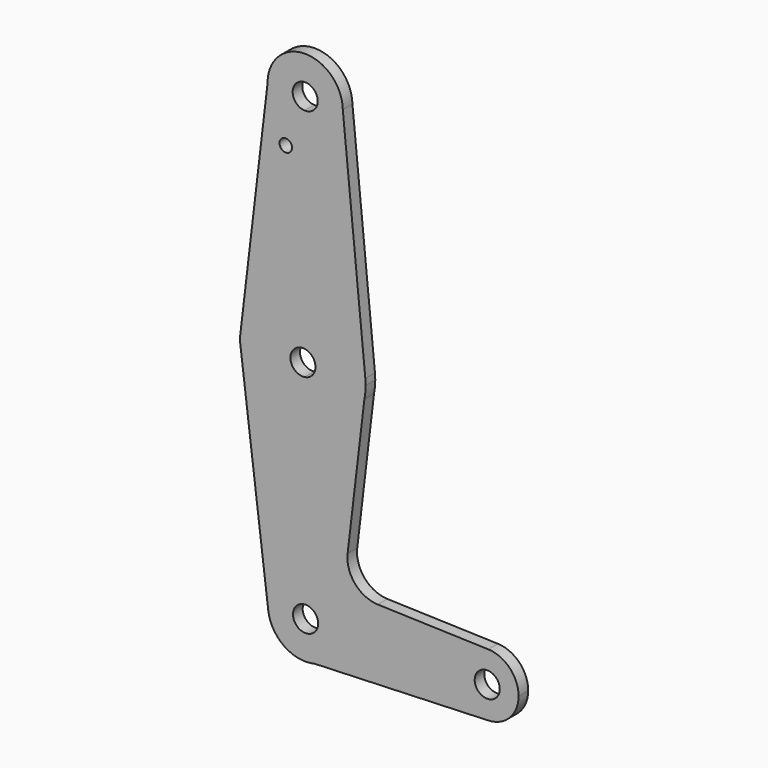
from build123d import *

# Parameters (mm, degrees)
F0_R     = 1.5875
F1_DEPTH = 3.048


with BuildPart() as f1:
    # F0 (on Front) → F1 (new body)
    with BuildSketch(Plane.XZ):
        with BuildLine():
            ThreePointArc((-34.0801477432, -15.8504228378), (-24.2907370076, -12.1361552631), (-18.9432584208, -3.1343321738))
            ThreePointArc((-18.9432584208, -3.1343321738), (-18.706210796, -1.565592922), (-18.6269309718, 0.018972989))
            ThreePointArc((-18.6269309718, 0.018972989), (-18.6459573636, 0.7959710159), (-18.702990932, 1.5711065586))
            ThreePointArc((-18.702990932, 1.5711065586), (-23.6841693978, 11.6375641053), (-34.0801477432, 15.8883688158))
            Line((-34.0801477432, 15.8883688158), (-34.0801477432, 3.1658323611))
            ThreePointArc((-34.0801477432, 3.1658323611), (-32.1123926534, 2.1096024694), (-31.3269309718, 0.018972989))
            ThreePointArc((-31.3269309718, 0.018972989), (-32.1123926534, -2.0716564915), (-34.0801477432, -3.1278863832))
            Line((-34.0801477432, -3.1278863832), (-34.0801477432, -15.8504228378))
        make_face()
        with BuildLine():
            Line((-23.1874564172, -38.9161083246), (-18.9432584208, -3.1343321738))
            ThreePointArc((-18.9432584208, -3.1343321738), (-24.2907370076, -12.1361552631), (-34.0801477432, -15.8504228378))
            Line((-34.0801477432, -15.8504228378), (-34.0801477432, -47.4332681982))
            ThreePointArc((-34.0801477432, -47.4332681982), (-28.0306092899, -49.403852965), (-24.5713730311, -54.7436848283))
            Line((-24.5713730311, -54.7436848283), (4.4484355461, -54.7436848283))
            ThreePointArc((4.4484355461, -54.7436848283), (7.35580492, -50.3015983907), (12.4128640951, -48.6857143926))
            Line((12.4128640951, -48.6857143926), (-15.5446967643, -47.798746179))
            ThreePointArc((-15.5446967643, -47.798746179), (-21.3190851144, -45.0378261368), (-23.1874564172, -38.9161083246))
        make_face()
        with BuildLine():
            Line((-34.0801477432, -47.4332681982), (-34.0801477432, -15.8504228378))
            ThreePointArc((-34.0801477432, -15.8504228378), (-44.6944213835, -12.1518430974), (-50.1989219657, -2.3517017543))
            Line((-50.1989219657, -2.3517017543), (-43.2888243686, -58.1262712121))
            ThreePointArc((-43.2888243686, -58.1262712121), (-41.0535722265, -50.7395431743), (-34.0801477432, -47.4332681982))
        make_face()
        with BuildLine():
            ThreePointArc((-50.1989219657, -2.3517017543), (-44.6944213835, -12.1518430974), (-34.0801477432, -15.8504228378))
            Line((-34.0801477432, -15.8504228378), (-34.0801477432, -3.1278863832))
            ThreePointArc((-34.0801477432, -3.1278863832), (-37.6769309718, 0.018972989), (-34.0801477432, 3.1658323611))
            Line((-34.0801477432, 3.1658323611), (-34.0801477432, 15.8883688158))
            ThreePointArc((-34.0801477432, 15.8883688158), (-44.8874112962, 12.025530507), (-50.2666005789, 1.8873458586))
            ThreePointArc((-50.2666005789, 1.8873458586), (-50.3760281263, 0.1882790173), (-50.3028643251, -1.5127352617))
            Line((-50.3028643251, -1.5127352617), (-50.1989219657, -2.3517017543))
        make_face()
        with BuildLine():
            ThreePointArc((-34.0801477432, 15.8883688158), (-23.6841693978, 11.6375641053), (-18.702990932, 1.5711065586))
            Line((-18.702990932, 1.5711065586), (-24.4091771226, 59.653482961))
            ThreePointArc((-24.4091771226, 59.653482961), (-24.4077354484, 59.557812378), (-24.4072548742, 59.4621321401))
            ThreePointArc((-24.4072548742, 59.4621321401), (-27.2495553664, 52.67485343), (-34.0801477432, 49.9382803616))
            Line((-34.0801477432, 49.9382803616), (-34.0801477432, 15.8883688158))
        make_face()
        with BuildLine():
            ThreePointArc((-50.3028643251, -1.5127352617), (-50.2564787514, -1.9329105273), (-50.1989219657, -2.3517017543))
            Line((-50.1989219657, -2.3517017543), (-50.3028643251, -1.5127352617))
        make_face()
        with BuildLine():
            Line((-34.0801477432, -53.7895347463), (-34.0801477432, -47.4332681982))
            ThreePointArc((-34.0801477432, -47.4332681982), (-41.0535722265, -50.7395431743), (-43.2888243686, -58.1262712121))
            ThreePointArc((-43.2888243686, -58.1262712121), (-39.2391291219, -64.7994291421), (-31.5607721969, -66.2043858256))
            ThreePointArc((-31.5607721969, -66.2043858256), (-26.3394937581, -62.8310737356), (-24.3110957009, -56.9551411023))
            ThreePointArc((-24.3110957009, -56.9551411023), (-24.376388823, -55.8417809696), (-24.5713730311, -54.7436848283))
            Line((-24.5713730311, -54.7436848283), (-31.5579196435, -54.7436848283))
            ThreePointArc((-31.5579196435, -54.7436848283), (-30.8938317781, -55.7619487418), (-30.6610957009, -56.9551411023))
            ThreePointArc((-30.6610957009, -56.9551411023), (-35.9931492196, -59.2848932602), (-34.0801477432, -53.7895347463))
        make_face()
        with BuildLine():
            ThreePointArc((-50.2666005789, 1.8873458586), (-44.8874112962, 12.025530507), (-34.0801477432, 15.8883688158))
            Line((-34.0801477432, 15.8883688158), (-34.0801477432, 49.9382803616))
            ThreePointArc((-34.0801477432, 49.9382803616), (-40.6793620008, 52.7388762011), (-43.456570664, 59.3479667524))
            Line((-43.456570664, 59.3479667524), (-50.2666005789, 1.8873458586))
        make_face()
        with Locations((-38.8512723148, 46.9598770142)):
            Circle(F0_R, mode=Mode.SUBTRACT)
        with BuildLine():
            ThreePointArc((-24.4072548742, 59.4621321401), (-24.4077354484, 59.557812378), (-24.4091771226, 59.653482961))
            ThreePointArc((-24.4091771226, 59.653482961), (-34.0850142327, 68.9859071048), (-43.456570664, 59.3479667524))
            ThreePointArc((-43.456570664, 59.3479667524), (-40.6793620008, 52.7388762011), (-34.0801477432, 49.9382803616))
            ThreePointArc((-34.0801477432, 49.9382803616), (-27.2495553664, 52.67485343), (-24.4072548742, 59.4621321401))
        make_face()
        with BuildLine():
            ThreePointArc((-30.7572548742, 59.4621321401), (-31.7401023771, 57.1653752027), (-34.0801477432, 56.2905784673))
            ThreePointArc((-34.0801477432, 56.2905784673), (-36.1244073713, 61.7588890775), (-30.7572548742, 59.4621321401))
        make_face(mode=Mode.SUBTRACT)
        with BuildLine():
            Line((-50.4902821465, 0), (-50.3028643251, -1.5127352617))
            ThreePointArc((-50.3028643251, -1.5127352617), (-50.3760281263, 0.1882790173), (-50.2666005789, 1.8873458586))
            Line((-50.2666005789, 1.8873458586), (-50.4902821465, 0))
        make_face()
        with BuildLine():
            Line((4.4484355461, -54.7436848283), (-24.5713730311, -54.7436848283))
            ThreePointArc((-24.5713730311, -54.7436848283), (-24.376388823, -55.8417809696), (-24.3110957009, -56.9551411023))
            ThreePointArc((-24.3110957009, -56.9551411023), (-26.3394937581, -62.8310737356), (-31.5607721969, -66.2043858256))
            Line((-31.5607721969, -66.2043858256), (12.4590684189, -64.5511306917))
            ThreePointArc((12.4590684189, -64.5511306917), (6.013694918, -61.6404242502), (4.4484355461, -54.7436848283))
        make_face()
        with BuildLine():
            ThreePointArc((20.0986693984, -56.6192228239), (17.8621225163, -51.0962671118), (12.4128640951, -48.6857143926))
            ThreePointArc((12.4128640951, -48.6857143926), (7.35580492, -50.3015983907), (4.4484355461, -54.7436848283))
            ThreePointArc((4.4484355461, -54.7436848283), (6.013694918, -61.6404242502), (12.4590684189, -64.5511306917))
            ThreePointArc((12.4590684189, -64.5511306917), (17.8781825926, -62.1255524896), (20.0986693984, -56.6192228239))
        make_face()
        with BuildLine():
            ThreePointArc((15.3361693984, -56.6192228239), (11.1745567589, -59.6370399986), (9.5993375876, -54.7436848283))
            ThreePointArc((9.5993375876, -54.7436848283), (13.1477820378, -53.6014056493), (15.3361693984, -56.6192228239))
        make_face(mode=Mode.SUBTRACT)
        with BuildLine():
            ThreePointArc((-24.5713730311, -54.7436848283), (-28.0306092899, -49.403852965), (-34.0801477432, -47.4332681982))
            Line((-34.0801477432, -47.4332681982), (-34.0801477432, -53.7895347463))
            ThreePointArc((-34.0801477432, -53.7895347463), (-32.7127009698, -53.9855267707), (-31.5579196435, -54.7436848283))
            Line((-31.5579196435, -54.7436848283), (-24.5713730311, -54.7436848283))
        make_face()
    extrude(amount=F1_DEPTH)


solid = f1.part
